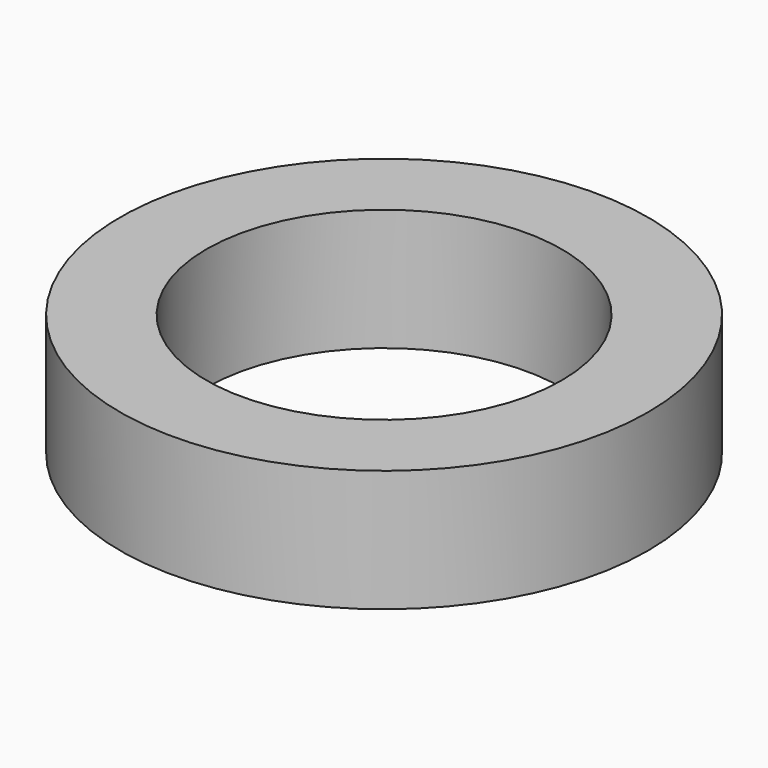
from build123d import *

# Parameters (mm, degrees)
SKETCH_R   = 26
SKETCH_R_2 = 17.5
PAD_DEPTH  = 12


with BuildPart() as part:
    # Sketch → Pad (new body)
    with BuildSketch(Plane.XY):
        Circle(SKETCH_R)
        Circle(SKETCH_R_2, mode=Mode.SUBTRACT)
    extrude(amount=PAD_DEPTH)


solid = part.part
